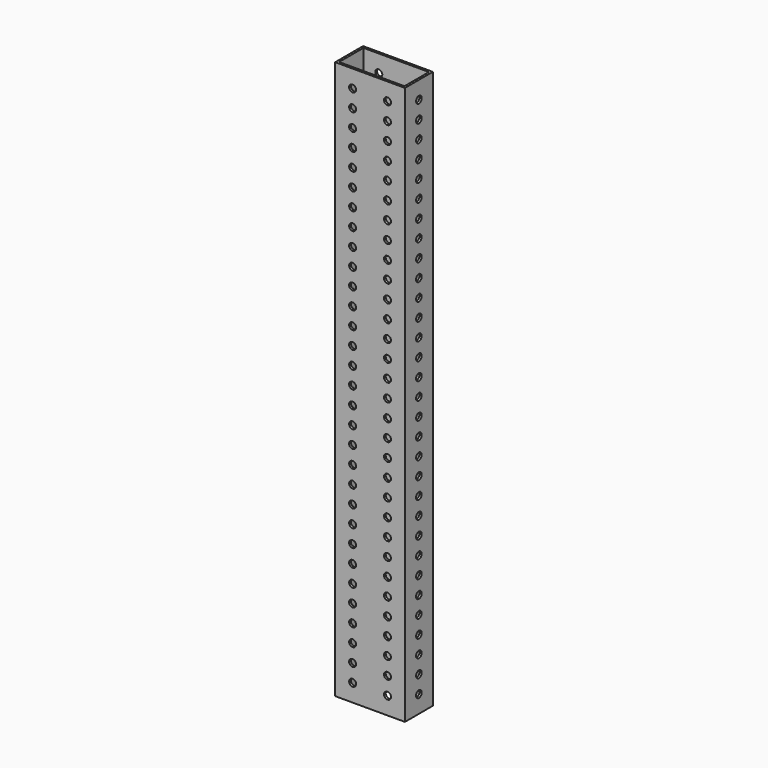
from build123d import *

# Parameters (mm, degrees)
F0_W     = 50.8
F0_H     = 25.4
F1_DEPTH = 406.4
F2_W     = 47.625
F2_H     = 22.225
F3_DEPTH = 406.4
F5_D     = 5.1054
F7_D     = 5.1054


with BuildPart() as f1:
    # F0 (on Top) → F1 (new body)
    with BuildSketch(Plane.XY):
        Rectangle(F0_W, F0_H)
    extrude(amount=F1_DEPTH)

    # F2 (on face) → F3 (cut)
    with BuildSketch(Plane.XY.offset(406.4)):
        Rectangle(F2_W, F2_H)
    extrude(amount=-F3_DEPTH, mode=Mode.SUBTRACT)

    # F5 (through all)
    with Locations(Plane.YZ.offset(25.4)):
        with Locations((0, 12.7), (0, 25.4), (0, 38.1), (0, 279.4), (0, 203.2), (0, 292.1), (0, 215.9), (0, 330.2), (0, 254), (0, 165.1), (0, 304.8), (0, 228.6), (0, 127), (0, 139.7), (0, 342.9), (0, 152.4), (0, 177.8), (0, 50.8), (0, 63.5), (0, 76.2), (0, 88.9), (0, 101.6), (0, 114.3), (0, 317.5), (0, 266.7), (0, 241.3), (0, 190.5), (0, 368.3), (0, 381), (0, 355.6), (0, 393.7)):
            Hole(F5_D / 2)

    # F7 (through all)
    with Locations(Plane.XZ.offset(12.7)):
        with Locations((12.7, 215.9), (-12.7, 215.9), (-12.7, 355.6), (-12.7, 381), (-12.7, 368.3), (-12.7, 393.7), (12.7, 393.7), (-12.7, 292.1), (-12.7, 317.5), (-12.7, 304.8), (-12.7, 342.9), (-12.7, 330.2), (-12.7, 254), (-12.7, 279.4), (-12.7, 266.7), (12.7, 292.1), (12.7, 88.9), (-12.7, 101.6), (-12.7, 177.8), (12.7, 50.8), (-12.7, 63.5), (12.7, 368.3), (12.7, 254), (12.7, 165.1), (12.7, 279.4), (12.7, 76.2), (-12.7, 88.9), (12.7, 38.1), (12.7, 152.4), (12.7, 355.6), (-12.7, 50.8), (12.7, 241.3), (-12.7, 165.1), (12.7, 317.5), (12.7, 114.3), (-12.7, 127), (-12.7, 12.7), (12.7, 203.2), (-12.7, 203.2), (12.7, 190.5), (12.7, 304.8), (12.7, 101.6), (-12.7, 114.3), (12.7, 63.5), (12.7, 381), (-12.7, 76.2), (12.7, 177.8), (12.7, 266.7), (-12.7, 190.5), (12.7, 342.9), (12.7, 139.7), (-12.7, 152.4), (12.7, 25.4), (-12.7, 38.1), (12.7, 228.6), (-12.7, 241.3), (12.7, 330.2), (12.7, 127), (-12.7, 139.7), (-12.7, 228.6), (12.7, 12.7), (-12.7, 25.4)):
            Hole(F7_D / 2)


solid = f1.part
